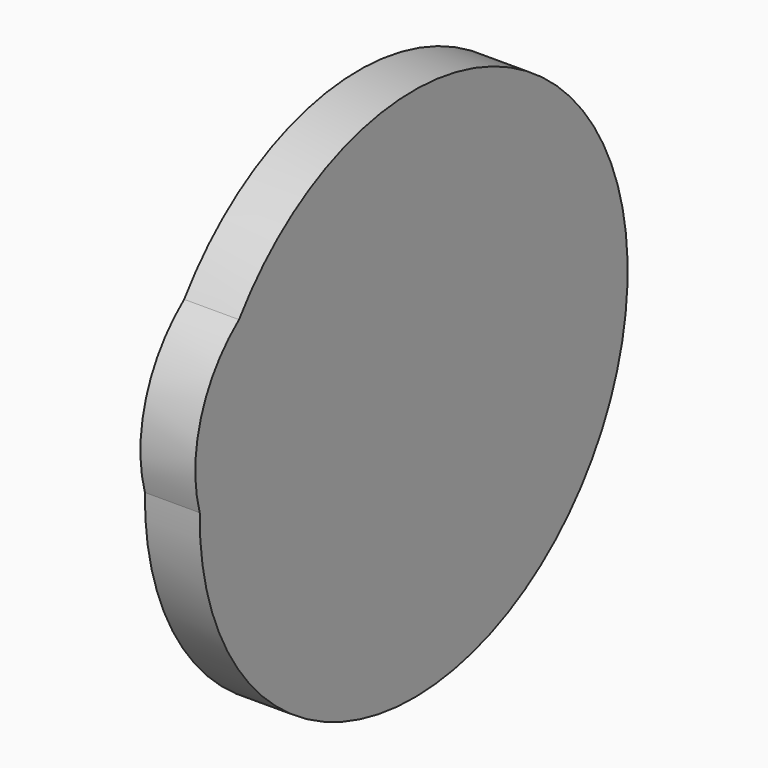
from build123d import *

# Parameters (mm, degrees)
F1_DEPTH = 12.7


with BuildPart() as f1:
    # F0 (on Right) → F1 (new body, symmetric)
    with BuildSketch(Plane.YZ):
        with BuildLine():
            ThreePointArc((-62.2240914399, -18.1068888326), (9.1449558335, -64.1565800329), (64.805069082, 0))
            ThreePointArc((64.805069082, 0), (28.6365494836, 58.1347143486), (-39.4968029866, 51.3780063116))
            ThreePointArc((-39.4968029866, 51.3780063116), (-56.1049388144, 18.3509398042), (-62.2240914399, -18.1068888326))
        make_face()
        with BuildLine():
            ThreePointArc((-39.4968029866, 51.3780063116), (28.6365494836, 58.1347143486), (64.805069082, 0))
            ThreePointArc((64.805069082, 0), (9.1449558335, -64.1565800329), (-62.2240914399, -18.1068888326))
            ThreePointArc((-62.2240914399, -18.1068888326), (60.5742652225, -143.9770234093), (185.4289173728, -20.1463203759))
            ThreePointArc((185.4289173728, -20.1463203759), (99.1207481443, 97.8656588755), (-39.4968029866, 51.3780063116))
        make_face()
        with BuildLine():
            ThreePointArc((-62.2240914399, -18.1068888326), (-56.1049388144, 18.3509398042), (-39.4968029866, 51.3780063116))
            ThreePointArc((-39.4968029866, 51.3780063116), (-61.59401557, 20.1463203759), (-62.2240914399, -18.1068888326))
        make_face()
    extrude(amount=F1_DEPTH, both=True)


solid = f1.part
